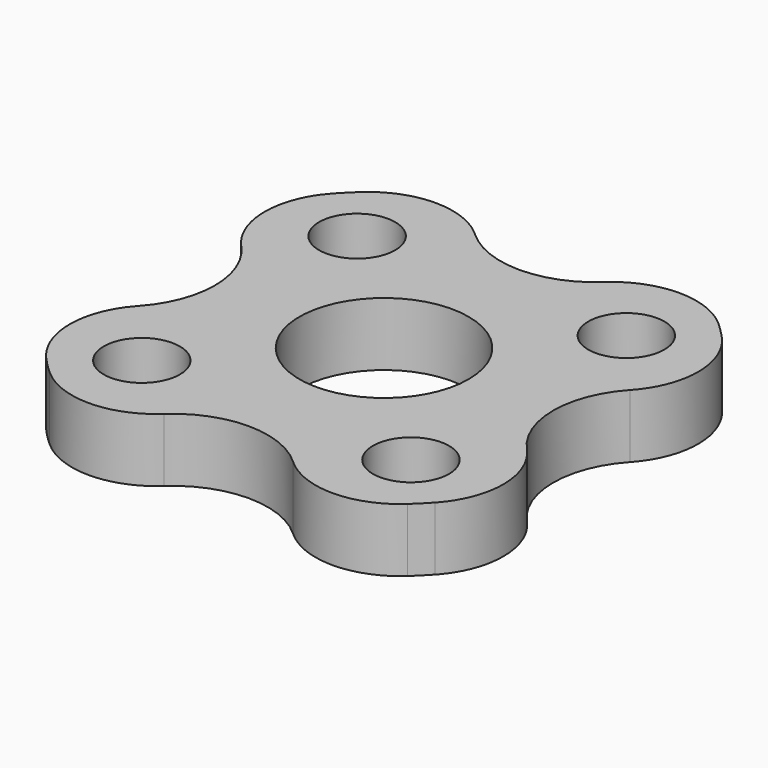
from build123d import *

# Parameters (mm, degrees)
F0_R     = 0.9
F0_R_2   = 2
F1_DEPTH = 1.5
F2_R     = 2


with BuildPart() as f1:
    # F0 (on Top) → F1 (new body)
    with BuildSketch(Plane.XY):
        with BuildLine():
            ThreePointArc((2.21325, 5.845), (0, 4), (-2.21325, 5.845))
            ThreePointArc((-2.21325, 5.845), (-4.419417, 4.419417), (-5.845, 2.21325))
            ThreePointArc((-5.845, 2.21325), (-4, 0), (-5.845, -2.21325))
            ThreePointArc((-5.845, -2.21325), (-4.419417, -4.419417), (-2.21325, -5.845))
            ThreePointArc((-2.21325, -5.845), (0, -4), (2.21325, -5.845))
            ThreePointArc((2.21325, -5.845), (4.419417, -4.419417), (5.845, -2.21325))
            ThreePointArc((5.845, -2.21325), (4, 0), (5.845, 2.21325))
            ThreePointArc((5.845, 2.21325), (4.419417, 4.419417), (2.21325, 5.845))
        make_face()
        with Locations((-3.181981, -3.181981)):
            Circle(F0_R, mode=Mode.SUBTRACT)
        with Locations((3.181981, -3.181981)):
            Circle(F0_R, mode=Mode.SUBTRACT)
        Circle(F0_R_2, mode=Mode.SUBTRACT)
        with Locations((-3.181981, 3.181981)):
            Circle(F0_R, mode=Mode.SUBTRACT)
        with Locations((3.181981, 3.181981)):
            Circle(F0_R, mode=Mode.SUBTRACT)
    extrude(amount=F1_DEPTH)

    # F2
    f2_edges = [f1.edges().sort_by_distance(p)[0] for p in [
        (2.21325, -5.845, 0.75),
        (-2.21325, -5.845, 0.75),
        (5.845, -2.21325, 0.75),
        (5.845, 2.21325, 0.75),
        (-5.845, -2.21325, 0.75),
        (-2.21325, 5.845, 0.75),
        (2.21325, 5.845, 0.75),
        (-5.845, 2.21325, 0.75),
    ]]
    fillet(f2_edges, radius=F2_R)


solid = f1.part
